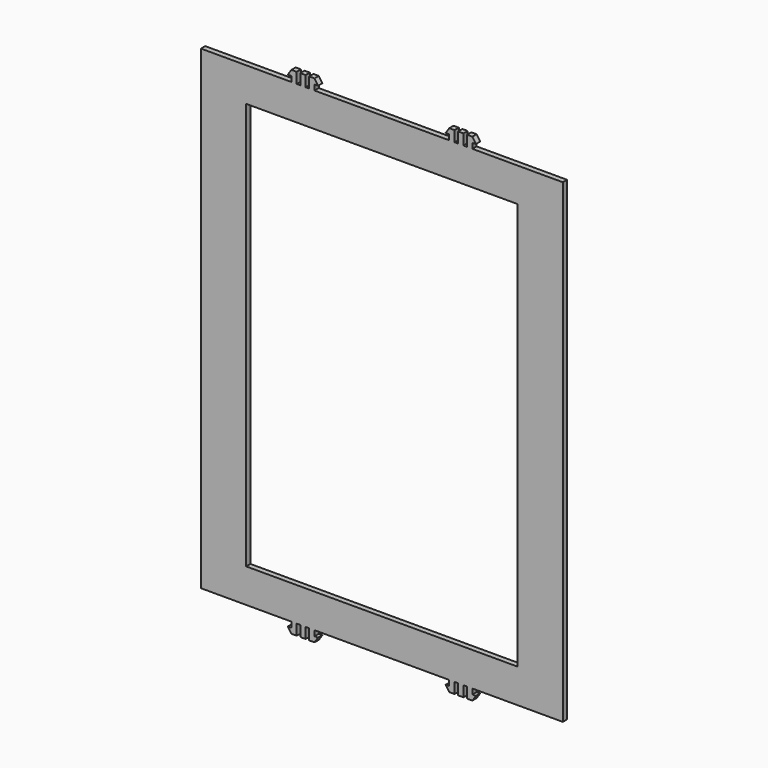
from build123d import *

# Parameters (mm, degrees)
F0_W     = 152.4
F0_H     = 228.6
F0_W_2   = 3
F0_H_2   = 6
F1_DEPTH = 3


with BuildPart() as f1:
    # F0 (on Front) → F1 (new body)
    with BuildSketch(Plane.XZ):
        Polygon((101.6, -133.35), (101.6, 133.35), (50.8, 133.35), (47.8, 133.35), (45.8, 133.35), (42.8, 133.35), (40.8, 133.35), (37.8, 133.35), (-37.8, 133.35), (-37.8, 136.35), (-35.8, 136.35), (-37.8, 139.35), (-40.8, 139.35), (-40.8, 133.35), (-42.8, 133.35), (-42.8, 139.35), (-45.8, 139.35), (-45.8, 133.35), (-47.8, 133.35), (-47.8, 139.35), (-50.8, 139.35), (-52.8, 136.35), (-50.8, 136.35), (-50.8, 133.35), (-101.6, 133.35), (-101.6, -133.35), (-50.8, -133.35), (-50.8, -136.35), (-52.8, -136.35), (-50.8, -139.35), (-47.8, -139.35), (-47.8, -133.35), (-45.8, -133.35), (-45.8, -139.35), (-42.8, -139.35), (-42.8, -133.35), (-40.8, -133.35), (-40.8, -139.35), (-37.8, -139.35), (-35.8, -136.35), (-37.8, -136.35), (-37.8, -133.35), (37.8, -133.35), (37.8, -136.35), (35.8, -136.35), (37.8, -139.35), (40.8, -139.35), (40.8, -133.35), (42.8, -133.35), (42.8, -139.35), (45.8, -139.35), (45.8, -133.35), (47.8, -133.35), (47.8, -139.35), (50.8, -139.35), (52.8, -136.35), (50.8, -136.35), (50.8, -133.35), align=None)
        Rectangle(F0_W, F0_H, mode=Mode.SUBTRACT)
        Polygon((47.8, 133.35), (50.8, 133.35), (50.8, 136.35), (52.8, 136.35), (50.8, 139.35), (47.8, 139.35), align=None)
        with Locations((44.3, 136.35)):
            Rectangle(F0_W_2, F0_H_2)
        Polygon((37.8, 133.35), (40.8, 133.35), (40.8, 139.35), (37.802805, 139.3444), (35.8, 136.3444), (37.8, 136.35), align=None)
    extrude(amount=F1_DEPTH)


solid = f1.part
